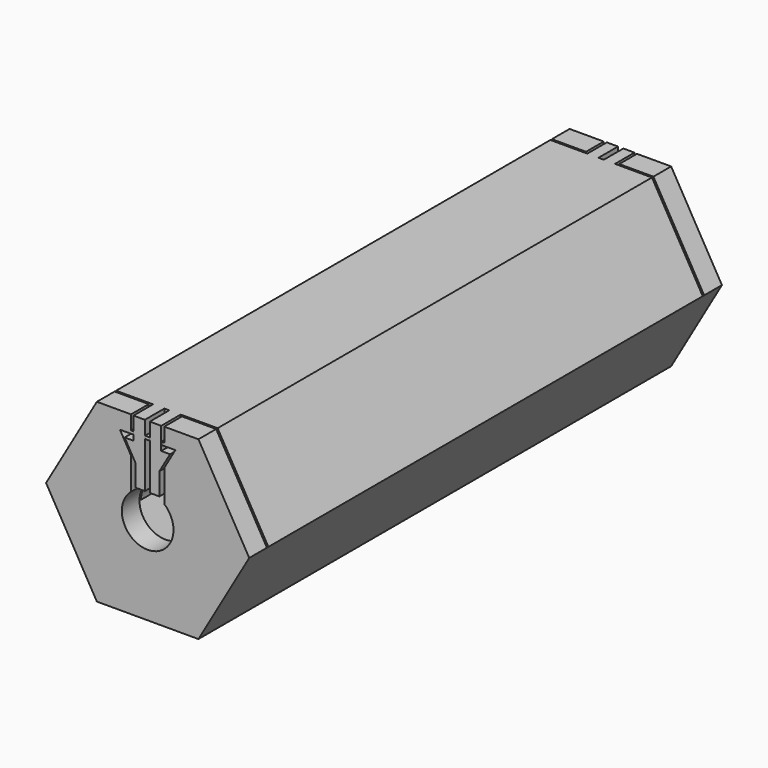
from build123d import *

# Parameters (mm, degrees)
SKETCH011_W  = 24
SKETCH011_H  = 34
PAD010_DEPTH = 1.5
PAD002_DEPTH = 57.5
PAD001_DEPTH = 37
PAD_DEPTH    = 40
SKETCH009_W  = 3
SKETCH009_H  = 0.4
PAD008_DEPTH = 5
SKETCH010_W  = 3
SKETCH010_H  = 0.4
PAD009_DEPTH = 5
SKETCH005_W  = 62
SKETCH005_H  = 32
PAD005_DEPTH = 47.5
PAD004_DEPTH = 34
PAD003_DEPTH = 36.75
SKETCH006_R  = 3.5
POCKET_DEPTH = 73.501
PAD006_DEPTH = 3.3
PAD007_DEPTH = 3.3


with BuildPart() as mote_fake:
    # Sketch011 → Pad010 (new body, symmetric)
    with BuildSketch(Plane.XY):
        Rectangle(SKETCH011_W, SKETCH011_H)
    extrude(amount=PAD010_DEPTH, both=True)


with BuildPart() as pad002:
    # Sketch002 → Pad002 (new body, symmetric)
    with BuildSketch(Plane.XZ):
        with BuildLine():
            Line((2.25, 7), (2.25, 2.680951))
            ThreePointArc((-2.25, 2.680951), (0, -3.5), (2.25, 2.680951))
            Line((-2.25, 2.680951), (-2.25, 7))
            Line((-3.75, 9.598076), (-2.25, 7))
            Line((-2.25, 9.598076), (-3.75, 9.598076))
            Line((-2.25, 9.598076), (-2.25, 24.598076))
            Line((-2.25, 24.598076), (2.25, 24.598076))
            Line((2.25, 24.598076), (2.25, 9.598076))
            Line((2.25, 9.598076), (3.75, 9.598076))
            Line((3.75, 9.598076), (2.25, 7))
        make_face()
    extrude(amount=PAD002_DEPTH, both=True)


with BuildPart() as pad001:
    # Sketch001 → Pad001 (new body, symmetric)
    with BuildSketch(Plane.XZ):
        Polygon((-19.8481, 20), (19.8481, 20), (19.8481, 0), (13, 0), (6.5, -11.25833), (-6.5, -11.25833), (-13, 0), (-19.8481, 0), align=None)
    extrude(amount=PAD001_DEPTH, both=True)


with BuildPart() as cut004:
    # Sketch → Pad (new body, symmetric)
    with BuildSketch(Plane.XZ):
        Polygon((6.875, -11.907849), (13.75, 0), (6.875, 11.907849), (-6.875, 11.907849), (-13.75, 0), (-6.875, -11.907849), align=None)
    extrude(amount=PAD_DEPTH, both=True)

    # Cut: cut Pad001
    add(pad001.part, mode=Mode.SUBTRACT)

    # Cut001: cut Pad002
    add(pad002.part, mode=Mode.SUBTRACT)

    # Sketch009 → Pad008 (new body)
    with BuildSketch(Plane(origin=(2.25, 0, 0), x_dir=(0, -1, 0), z_dir=(-1, 0, 0))):
        with Locations((-38.5, 9.798076)):
            Rectangle(SKETCH009_W, SKETCH009_H)
    extrude(amount=PAD008_DEPTH)

    # Sketch010 → Pad009 (new body)
    with BuildSketch(Plane(origin=(2.25, 0, 0), x_dir=(0, -1, 0), z_dir=(-1, 0, 0))):
        with Locations((38.5, 9.798076)):
            Rectangle(SKETCH010_W, SKETCH010_H)
    extrude(amount=PAD009_DEPTH)

    # Cut004: cut mote_fake
    add(mote_fake.part, mode=Mode.SUBTRACT)


with BuildPart() as clone_of_mote_fake:
    # Clone base: copy of mote_fake
    add(mote_fake.part)


with BuildPart() as pad005:
    # Sketch005 → Pad005 (new body, symmetric)
    with BuildSketch(Plane.XZ):
        with Locations((0, -16)):
            Rectangle(SKETCH005_W, SKETCH005_H)
    extrude(amount=PAD005_DEPTH, both=True)


with BuildPart() as pad004:
    # Sketch004 → Pad004 (new body, symmetric)
    with BuildSketch(Plane.XZ):
        Polygon((-31.5, 0), (-12, 0), (-6, 10.392305), (6, 10.392305), (12, 0), (31.5, 0), (31.5, -32), (-31.5, -32), align=None)
    extrude(amount=PAD004_DEPTH, both=True)


with BuildPart() as cut005:
    # Sketch003 → Pad003 (new body, symmetric)
    with BuildSketch(Plane.XZ):
        Polygon((6.875, -11.907849), (13.75, 0), (6.875, 11.907849), (-6.875, 11.907849), (-13.75, 0), (-6.875, -11.907849), align=None)
    extrude(amount=PAD003_DEPTH, both=True)

    # Cut002: cut Pad004
    add(pad004.part, mode=Mode.SUBTRACT)

    # Cut003: cut Pad005
    add(pad005.part, mode=Mode.SUBTRACT)

    # Sketch006 → Pocket (cut, through all)
    with BuildSketch(Plane.XZ.offset(36.75)):
        Circle(SKETCH006_R)
    extrude(amount=-POCKET_DEPTH, mode=Mode.SUBTRACT)

    # Sketch007 → Pad006 (new body)
    with BuildSketch(Plane.XZ.offset(36.75)):
        Polygon((-1.875, 11.907849), (-1.875, 8.907849), (-3.075, 8.907849), (-1.631624, 6.407849), (-1.631624, 3.407849), (-0.331624, 3.407849), (-0.331624, 11.907849), align=None)
        Polygon((1.875, 11.907849), (1.875, 8.907849), (3.075, 8.907849), (1.631624, 6.407849), (1.631624, 3.407849), (0.331624, 3.407849), (0.331624, 11.907849), align=None)
    extrude(amount=PAD006_DEPTH)

    # Sketch008 → Pad007 (new body)
    with BuildSketch(Plane(origin=(0, 36.75, 0), x_dir=(-1, 0, 0), z_dir=(0, 1, 0))):
        Polygon((-1.875, 11.907849), (-1.875, 8.907849), (-3.105, 8.907849), (-1.661624, 6.407849), (-1.661624, 3.407849), (-0.361624, 3.407849), (-0.361624, 11.907849), align=None)
        Polygon((0.361624, 11.907849), (0.361624, 3.407849), (1.661624, 3.407849), (1.661624, 6.407849), (3.105, 8.907849), (1.875, 8.907849), (1.875, 11.907849), align=None)
    extrude(amount=PAD007_DEPTH)

    # Cut005: cut Clone of mote_fake
    add(clone_of_mote_fake.part, mode=Mode.SUBTRACT)


solid = Compound([cut004.part, cut005.part])
